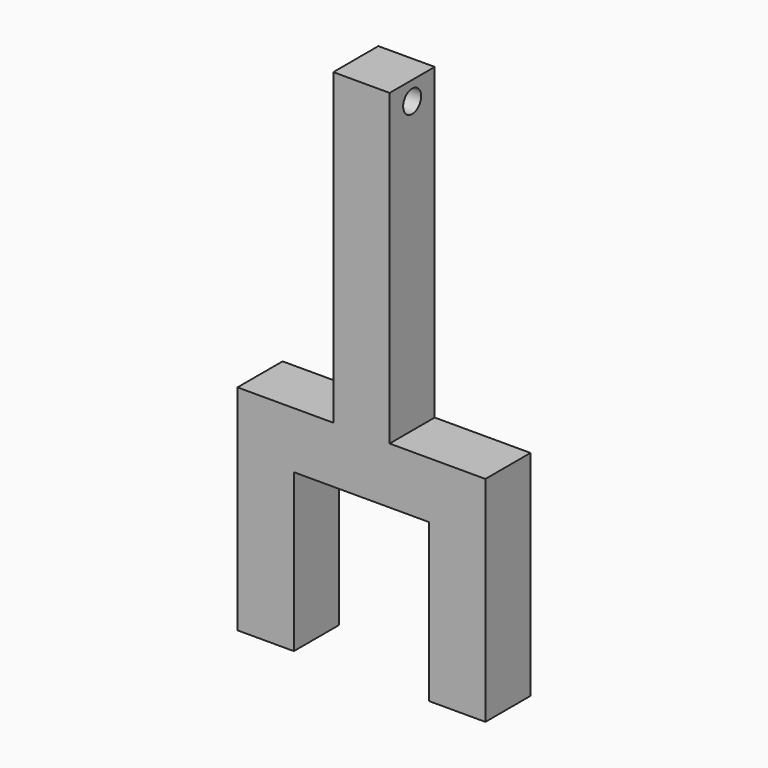
from build123d import *

# Parameters (mm, degrees)
F0_W     = 25
F0_H     = 69.908805
F1_DEPTH = 25
F3_DEPTH = 50


with BuildPart() as f1:
    # F0 (on Front) → F1 (new body)
    with BuildSketch(Plane.XZ):
        Polygon((-37.825446, 98.30073), (-62.825446, 98.30073), (-62.825446, -38.655757), (-50.325446, -38.655757), (-37.825446, -38.655757), align=None)
        Polygon((-50.325446, -38.655757), (-62.825446, -38.655757), (-105.325446, -38.655757), (-105.325446, -63.655757), (-80.325446, -63.655757), (-20.325446, -63.655757), (4.674554, -63.655757), (4.674554, -38.655757), (-37.825446, -38.655757), align=None)
        with Locations((-92.825446, -98.610159)):
            Rectangle(F0_W, F0_H)
        with Locations((-7.825446, -98.610159)):
            Rectangle(F0_W, F0_H)
    extrude(amount=F1_DEPTH)

    # F2 (on face) → F3 (cut)
    with BuildSketch(Plane(origin=(-62.825446, 0, 0), x_dir=(0, -1, 0), z_dir=(-1, 0, 0))):
        with BuildLine():
            ThreePointArc((12.5, 94.954115), (8.964466, 86.418582), (17.5, 89.954115))
            ThreePointArc((17.5, 89.954115), (16.035534, 93.489649), (12.5, 94.954115))
        make_face()
    extrude(amount=-F3_DEPTH, mode=Mode.SUBTRACT)


solid = f1.part
